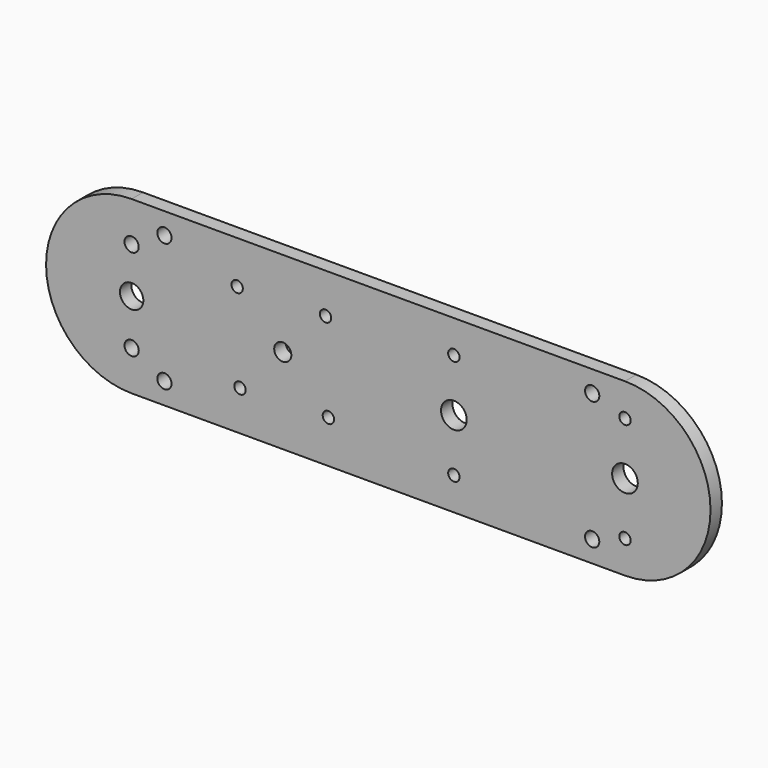
from build123d import *

# Parameters (mm, degrees)
F0_R     = 2.5
F0_R_2   = 2
F0_R_3   = 4.1
F0_R_4   = 3
F0_R_5   = 4.5
F1_DEPTH = 5


with BuildPart() as f1:
    # F0 (on Front) → F1 (new body)
    with BuildSketch(Plane.XZ):
        with BuildLine():
            Line((-173, 0), (0, 0))
            ThreePointArc((0, 0), (30, 30), (0, 60))
            Line((0, 60), (-173, 60))
            ThreePointArc((-173, 60), (-203, 30), (-173, 0))
        make_face()
        with Locations((-161.499388, 7.5)):
            Circle(F0_R, mode=Mode.SUBTRACT)
        with Locations((-173, 14.0044)):
            Circle(F0_R, mode=Mode.SUBTRACT)
        with Locations((-135, 14)):
            Circle(F0_R_2, mode=Mode.SUBTRACT)
        with Locations((-104, 15)):
            Circle(F0_R_2, mode=Mode.SUBTRACT)
        with Locations((-173, 30)):
            Circle(F0_R_3, mode=Mode.SUBTRACT)
        with Locations((-120, 30)):
            Circle(F0_R_4, mode=Mode.SUBTRACT)
        with Locations((-60, 11.5)):
            Circle(F0_R_2, mode=Mode.SUBTRACT)
        with Locations((-11.499388, 7.5)):
            Circle(F0_R, mode=Mode.SUBTRACT)
        with Locations((0, 11.464711)):
            Circle(F0_R_2, mode=Mode.SUBTRACT)
        with Locations((-60, 30)):
            Circle(F0_R_5, mode=Mode.SUBTRACT)
        with Locations((0, 30)):
            Circle(F0_R_5, mode=Mode.SUBTRACT)
        with Locations((-136, 45)):
            Circle(F0_R_2, mode=Mode.SUBTRACT)
        with Locations((-173, 46.0044)):
            Circle(F0_R, mode=Mode.SUBTRACT)
        with Locations((-161.499388, 52.5)):
            Circle(F0_R, mode=Mode.SUBTRACT)
        with Locations((-105, 46)):
            Circle(F0_R_2, mode=Mode.SUBTRACT)
        with Locations((-60, 48.5)):
            Circle(F0_R_2, mode=Mode.SUBTRACT)
        with Locations((0, 48.502043)):
            Circle(F0_R_2, mode=Mode.SUBTRACT)
        with Locations((-11.499388, 52.5)):
            Circle(F0_R, mode=Mode.SUBTRACT)
    extrude(amount=F1_DEPTH)


solid = f1.part
